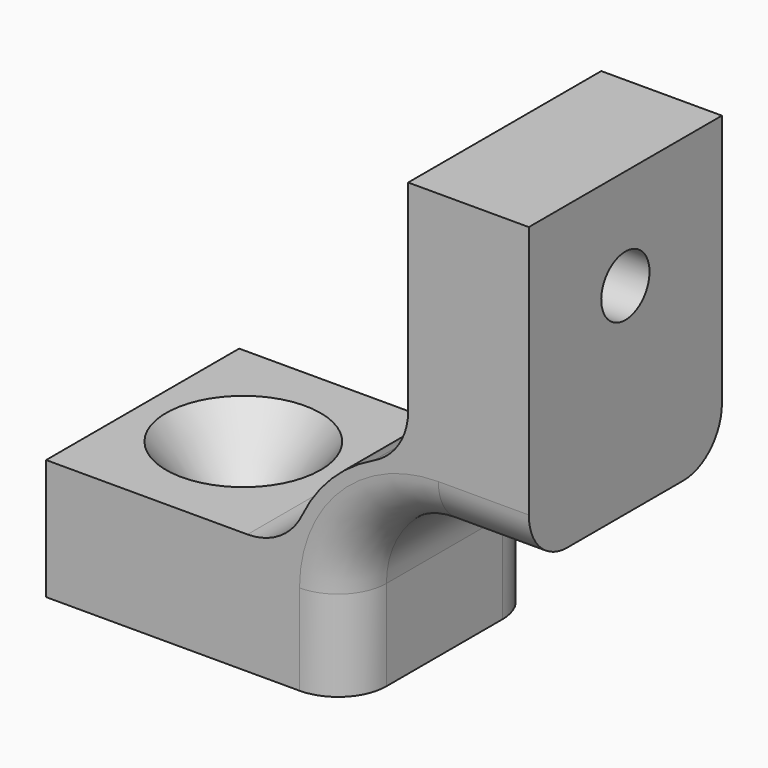
from build123d import *

# Parameters (mm, degrees)
F1_DEPTH = 6.35
F2_R     = 2.54


with BuildPart() as f1:
    # F0 (on Front) → F1 (new body, symmetric)
    with BuildSketch(Plane.XZ):
        with BuildLine():
            ThreePointArc((-9.525, 4.7625), (-8.130096, 8.130096), (-4.7625, 9.525))
            Line((-4.7625, 9.525), (0, 9.525))
            Line((0, 9.525), (0, 25.4))
            Line((0, 25.4), (-6.35, 25.4))
            Line((-6.35, 25.4), (-6.35, 14.802732))
            ThreePointArc((-6.35, 14.802732), (-6.841635, 13.105623), (-8.164286, 11.934094))
            ThreePointArc((-8.164286, 11.934094), (-10.37516, 10.37516), (-11.934094, 8.164286))
            ThreePointArc((-11.934094, 8.164286), (-13.105623, 6.841635), (-14.802732, 6.35))
            Line((-14.802732, 6.35), (-25.4, 6.35))
            Line((-25.4, 6.35), (-25.4, 0))
            Line((-25.4, 0), (-9.525, 0))
            Line((-9.525, 0), (-9.525, 4.7625))
        make_face()
    extrude(amount=F1_DEPTH, both=True)

    # F2
    f2_edges = [f1.edges().sort_by_distance(p)[0] for p in [
        (-2.38125, -6.35, 9.525),
        (-8.130096, 6.35, 8.130096),
    ]]
    fillet(f2_edges, radius=F2_R)

    # F3 (on Front) → F4 (revolve, cut)
    with BuildSketch(Plane.XZ):
        Polygon((-20.101366, 0), (-18.513866, 0), (-18.513866, 3.180225), (-16.037366, 6.35), (-13.194864, 9.988236), (-20.101366, 9.988236), align=None)
    revolve(axis=Axis((-20.101366, 0, 3.175), (0, 0, -1)), mode=Mode.SUBTRACT)

    # F5 (on Front) → F6 (revolve, cut)
    with BuildSketch(Plane.XZ):
        Polygon((-9.988236, 13.194864), (-6.35, 16.037366), (-3.180225, 18.513866), (0, 18.513866), (0, 20.101366), (-9.988236, 20.101366), align=None)
    revolve(axis=Axis((-4.994118, 0, 20.101366), (1, 0, 0)), mode=Mode.SUBTRACT)


solid = f1.part
